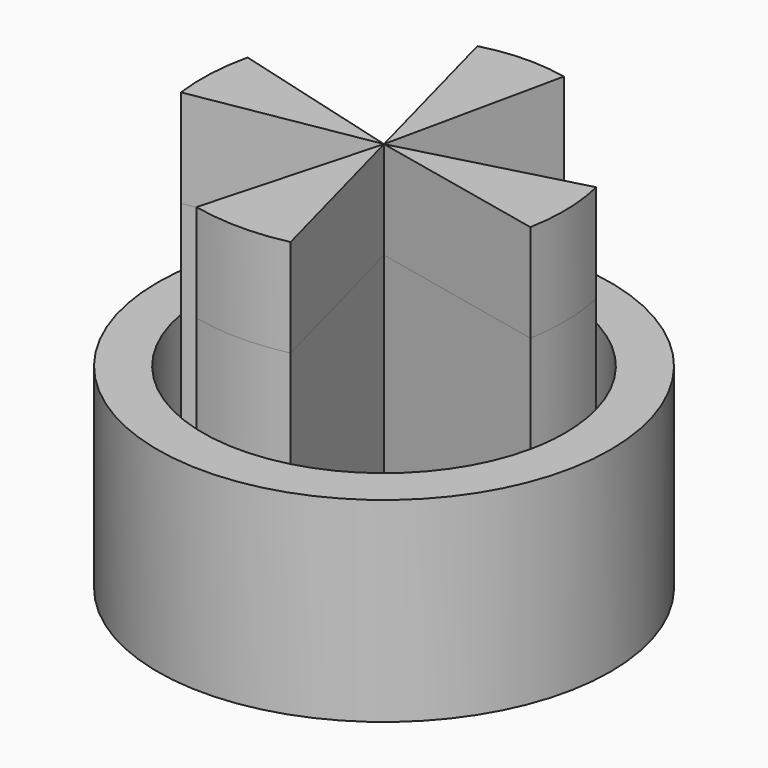
from build123d import *

# Parameters (mm, degrees)
F0_R     = 58.8645
F0_R_2   = 47.0662
F1_DEPTH = 50.8
F3_DEPTH = 25.4
F4_DEPTH = 50.8
F5_DEPTH = 25.4
F6_DEPTH = 25.4


with BuildPart() as f1:
    # F0 (on Top) → F1 (new body)
    with BuildSketch(Plane.XY):
        Circle(F0_R)
        Circle(F0_R_2, mode=Mode.SUBTRACT)
    extrude(amount=F1_DEPTH)

    # F2 (on face) → F3 (join, symmetric)
    with BuildSketch(Plane.XY.offset(50.8)):
        with BuildLine():
            Line((-12.1056949536, 45.4827366385), (0, 0))
            Line((0, 0), (9.9506329246, 46.002305234))
            ThreePointArc((9.9506329246, 46.002305234), (-1.1084046953, 47.0531467754), (-12.1056949536, 45.4827366385))
        make_face()
        with BuildLine():
            Line((45.4827366385, 12.1056949536), (0, 0))
            Line((0, 0), (46.002305234, -9.9506329246))
            ThreePointArc((46.002305234, -9.9506329246), (46.9083962016, 1.1049948869), (45.4827366385, 12.1056949536))
        make_face()
        with BuildLine():
            Line((12.1056949536, -45.4827366385), (0, 0))
            Line((0, 0), (-12.4332453646, -45.3942903033))
            ThreePointArc((-12.4332453646, -45.3942903033), (-0.1686759799, -46.7982058703), (12.1056949536, -45.4827366385))
        make_face()
        with BuildLine():
            Line((-46.385078942, -7.9781974142), (0, 0))
            Line((0, 0), (-45.3942903033, 12.4332453646))
            ThreePointArc((-45.3942903033, 12.4332453646), (-46.7973228873, 2.2715815017), (-46.385078942, -7.9781974142))
        make_face()
    extrude(amount=F3_DEPTH, both=True)


with BuildPart() as f4:
    # F4 (new): a face of the model
    f4_faces = [f1.part.faces().sort_by_distance(p)[0] for p in [
        (-0.7320628202, 31.0769698775, 76.2),
    ]]
    extrude(f4_faces, amount=-F4_DEPTH)


with BuildPart() as f4b:
    # F4#2 (new): a face of the model
    f4_2_faces = [f1.part.faces().sort_by_distance(p)[0] for p in [
        (-30.9961070931, 1.5045771671, 76.2),
    ]]
    extrude(f4_2_faces, amount=-F4_DEPTH)


with BuildPart() as f4c:
    # F4#3 (new): a face of the model
    f4_3_faces = [f1.part.faces().sort_by_distance(p)[0] for p in [
        (-0.1113584297, -30.895772613, 76.2),
    ]]
    extrude(f4_3_faces, amount=-F4_DEPTH)


with BuildPart() as f4d:
    # F4#4 (new): a face of the model
    f4_4_faces = [f1.part.faces().sort_by_distance(p)[0] for p in [
        (31.0126069708, 0.7305466592, 76.2),
    ]]
    extrude(f4_4_faces, amount=-F4_DEPTH)


with BuildPart() as f5:
    # F5 (new): a face of the model
    f5_faces = [f1.part.faces().sort_by_distance(p)[0] for p in [
        (31.0126069708, 0.7305466592, 25.4),
    ]]
    extrude(f5_faces, amount=F5_DEPTH)


with BuildPart() as f5b:
    # F5#2 (new): a face of the model
    f5_2_faces = [f1.part.faces().sort_by_distance(p)[0] for p in [
        (-0.1113584297, -30.895772613, 25.4),
    ]]
    extrude(f5_2_faces, amount=F5_DEPTH)


with BuildPart() as f5c:
    # F5#3 (new): a face of the model
    f5_3_faces = [f1.part.faces().sort_by_distance(p)[0] for p in [
        (-30.9961070931, 1.5045771671, 25.4),
    ]]
    extrude(f5_3_faces, amount=F5_DEPTH)


with BuildPart() as f5d:
    # F5#4 (new): a face of the model
    f5_4_faces = [f1.part.faces().sort_by_distance(p)[0] for p in [
        (-0.7320628202, 31.0769698775, 25.4),
    ]]
    extrude(f5_4_faces, amount=F5_DEPTH)


with BuildPart() as f6:
    # F6 (new): a face of the model
    f6_faces = [f4d.part.faces().sort_by_distance(p)[0] for p in [
        (31.0126069708, 0.7305466592, 76.2),
    ]]
    extrude(f6_faces, amount=F6_DEPTH)


with BuildPart() as f6b:
    # F6#2 (new): a face of the model
    f6_2_faces = [f1.part.faces().sort_by_distance(p)[0] for p in [
        (-0.1113584297, -30.895772613, 76.2),
    ]]
    extrude(f6_2_faces, amount=F6_DEPTH)


with BuildPart() as f6c:
    # F6#3 (new): a face of the model
    f6_3_faces = [f1.part.faces().sort_by_distance(p)[0] for p in [
        (-30.9961070931, 1.5045771671, 76.2),
    ]]
    extrude(f6_3_faces, amount=F6_DEPTH)


with BuildPart() as f6d:
    # F6#4 (new): a face of the model
    f6_4_faces = [f1.part.faces().sort_by_distance(p)[0] for p in [
        (-0.7320628202, 31.0769698775, 76.2),
    ]]
    extrude(f6_4_faces, amount=F6_DEPTH)


solid = Compound([f1.part, f4.part, f4b.part, f4c.part, f4d.part, f5.part, f5b.part, f5c.part, f5d.part, f6.part, f6b.part, f6c.part, f6d.part])
